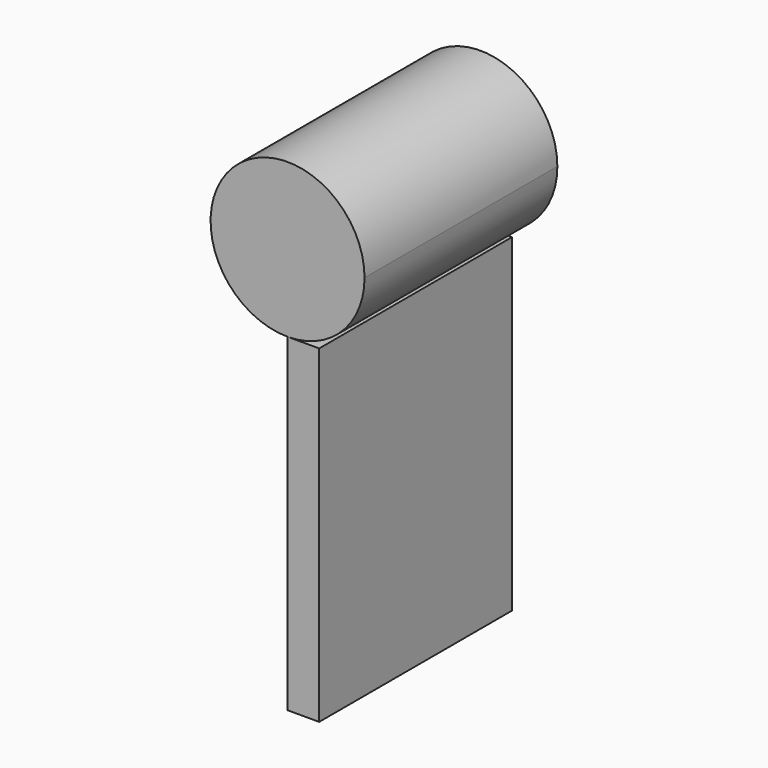
from build123d import *

# Parameters (mm, degrees)
F0_W     = 3.281251
F0_H     = 34.101741
F1_DEPTH = 25


with BuildPart() as f1:
    # F0 (on Front) → F1 (new body)
    with BuildSketch(Plane.XZ):
        with BuildLine():
            ThreePointArc((0, -7.983862), (5.645443, -5.645443), (7.983862, 0))
            ThreePointArc((7.983862, 0), (-5.645443, 5.645443), (0, -7.983862))
        make_face()
        with Locations((1.640625, -25.034733)):
            Rectangle(F0_W, F0_H)
    extrude(amount=F1_DEPTH)


solid = f1.part
